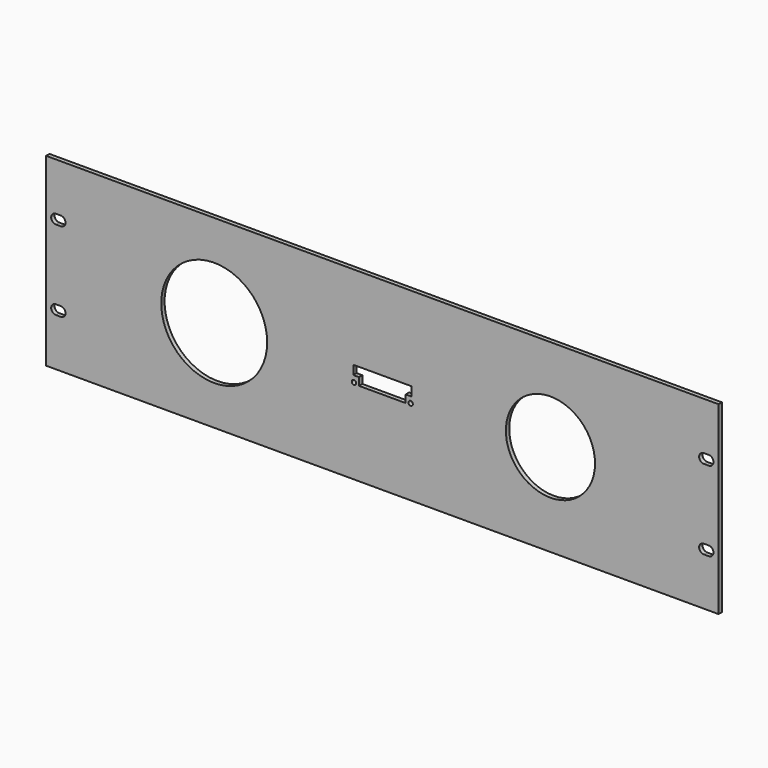
from build123d import *

# Parameters (mm, degrees)
F0_W     = 482.6
F0_H     = 132.6
F1_DEPTH = 3
F2_W     = 3.5
F2_H     = 6.8
F3_W     = 3.5
F3_H     = 6.8
F4_W     = 3.5
F4_H     = 6.8
F5_W     = 3.5
F5_H     = 6.8
F6_DEPTH = 3
F7_R     = 38
F7_R_2   = 32
F7_R_3   = 1.6
F8_DEPTH = 3


with BuildPart() as f1:
    # F0 (on Front) → F1 (new body)
    with BuildSketch(Plane.XZ):
        Rectangle(F0_W, F0_H)
    extrude(amount=-F1_DEPTH)

    # F2 (on face) + F3 (on face) + F4 (on face) + F5 (on face) → F6 (cut)
    with BuildSketch(Plane.XZ):
        with Locations((-232.5, 28.6)):
            Rectangle(F2_W, F2_H)
        with BuildLine():
            Line((-230.75, 32), (-230.75, 25.2))
            ThreePointArc((-230.75, 25.2), (-227.35, 28.6), (-230.75, 32))
        make_face()
        with BuildLine():
            ThreePointArc((-234.25, 32), (-237.65, 28.6), (-234.25, 25.2))
            Line((-234.25, 25.2), (-234.25, 32))
        make_face()
    with BuildSketch(Plane.XZ):
        with Locations((-232.5, -28.6)):
            Rectangle(F3_W, F3_H)
        with BuildLine():
            Line((-230.75, -25.2), (-230.75, -32))
            ThreePointArc((-230.75, -32), (-227.35, -28.6), (-230.75, -25.2))
        make_face()
        with BuildLine():
            ThreePointArc((-234.25, -25.2), (-237.65, -28.6), (-234.25, -32))
            Line((-234.25, -32), (-234.25, -25.2))
        make_face()
    with BuildSketch(Plane.XZ):
        with Locations((232.5, 28.6)):
            Rectangle(F4_W, F4_H)
        with BuildLine():
            ThreePointArc((234.25, 25.2), (237.65, 28.6), (234.25, 32))
            Line((234.25, 32), (234.25, 25.2))
        make_face()
        with BuildLine():
            Line((230.75, 25.2), (230.75, 32))
            ThreePointArc((230.75, 32), (227.35, 28.6), (230.75, 25.2))
        make_face()
    with BuildSketch(Plane.XZ):
        with Locations((232.5, -28.6)):
            Rectangle(F5_W, F5_H)
        with BuildLine():
            Line((234.25, -25.2), (234.25, -32))
            ThreePointArc((234.25, -32), (237.65, -28.6), (234.25, -25.2))
        make_face()
        with BuildLine():
            ThreePointArc((230.75, -25.2), (227.35, -28.6), (230.75, -32))
            Line((230.75, -32), (230.75, -25.2))
        make_face()
    extrude(amount=-F6_DEPTH, mode=Mode.SUBTRACT)

    # F7 (on face) → F8 (cut)
    with BuildSketch(Plane.XZ):
        with Locations((-120.65, 0)):
            Circle(F7_R)
        with Locations((120.65, 0)):
            Circle(F7_R_2)
        Polygon((20.85, -0.5), (20.85, 6), (-20.85, 6), (-20.85, -0.5), (-16.75, -0.5), (-16.75, -6), (16.75, -6), (16.75, -0.5), align=None)
        with Locations((20.32, -5)):
            Circle(F7_R_3)
        with Locations((-20.32, -5)):
            Circle(F7_R_3)
    extrude(amount=-F8_DEPTH, mode=Mode.SUBTRACT)


solid = f1.part
